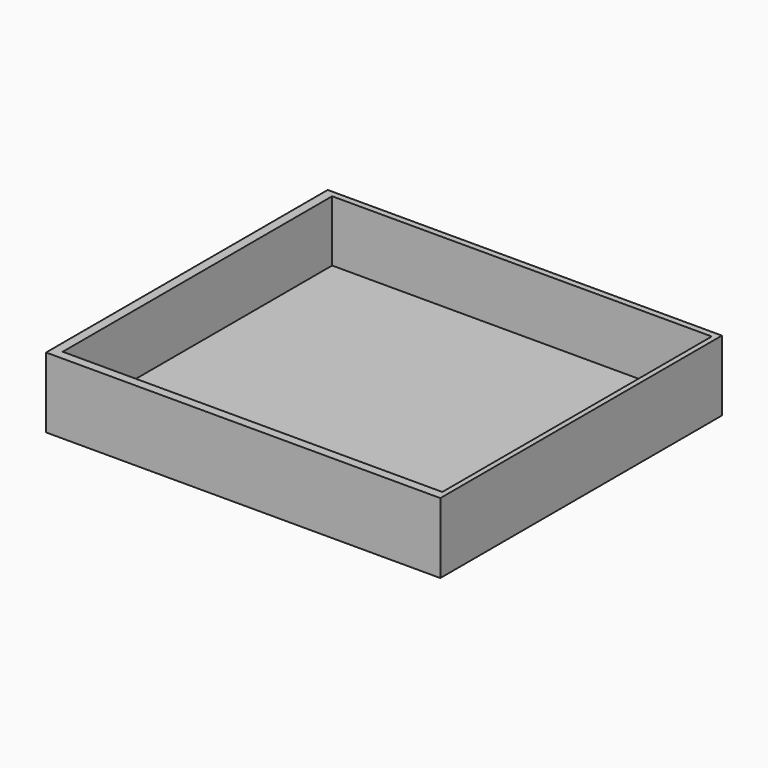
from build123d import *

# Parameters (mm, degrees)
BOX_W        = 84
BOX_H        = 75
BOX_DEPTH    = 15
SKETCH_W     = 80.880747
SKETCH_H     = 71.755581
POCKET_DEPTH = 13


with BuildPart() as part:
    # Box → Box (new body)
    with BuildSketch(Plane.XY):
        with Locations((42, 37.5)):
            Rectangle(BOX_W, BOX_H)
    extrude(amount=BOX_DEPTH)

    # Sketch (on Face6 of BaseFeature) → Pocket (cut)
    with BuildSketch(Plane.XY.offset(15)):
        with Locations((42.439135, 37.810083)):
            Rectangle(SKETCH_W, SKETCH_H)
    extrude(amount=-POCKET_DEPTH, mode=Mode.SUBTRACT)


solid = part.part
